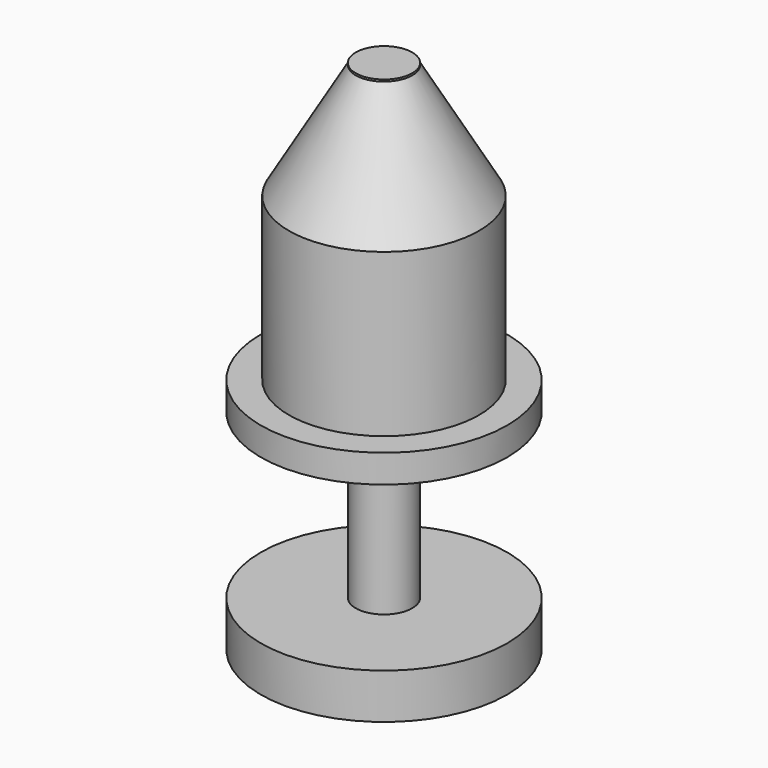
from build123d import *

# Parameters (mm, degrees)
F0_R     = 5.057529
F1_DEPTH = 50


with BuildPart() as f1:
    # F0 (on Top) → F1 (new body, symmetric)
    with BuildSketch(Plane.XY):
        Circle(F0_R)
    extrude(amount=F1_DEPTH, both=True)

    # F2 (on Right) → F3 (revolve)
    with BuildSketch(Plane.YZ):
        Polygon((5.026597, 49.70745), (0, 49.70745), (0, -5.026596), (22.061169, -5.026596), (22.061169, 0), (17.034575, 0), (17.034575, 29.042553), align=None)
        Polygon((22.061169, -34.348406), (0, -34.348406), (0, -49.70745), (22.061169, -42.446807), align=None)
    revolve(axis=Axis((0, 0, 19.966756), (0, 0, -1)))


solid = f1.part
